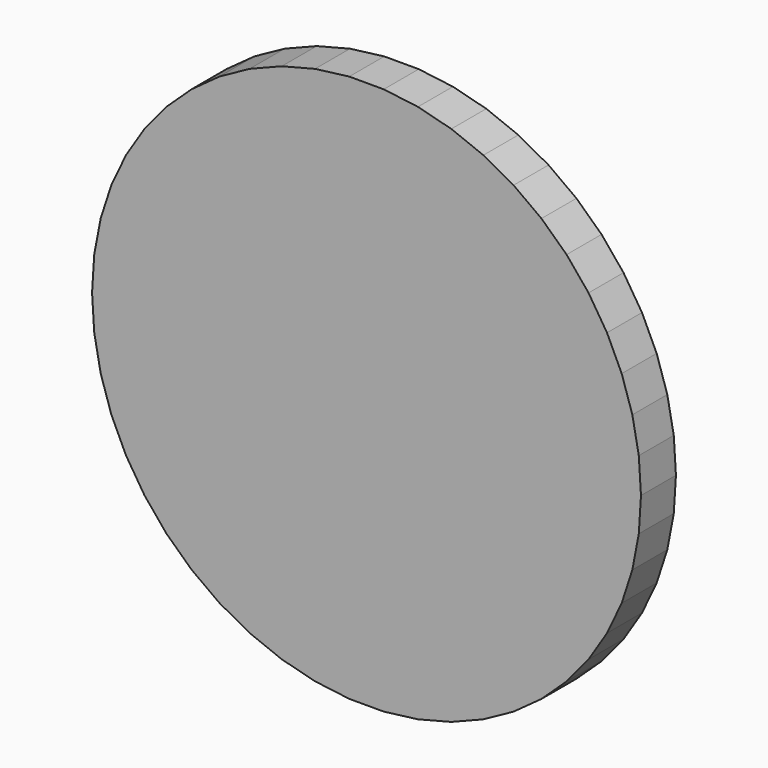
from build123d import *

# Parameters (mm, degrees)
F2_DEPTH = 10


with BuildPart() as f2:
    # F0 (on Front) → F2 (new body)
    with BuildSketch(Plane.XZ):
        Polygon((3.942324, 62.661439), (-3.942324, 62.661439), (-11.764798, 61.673231), (-19.401734, 59.712399), (-26.732694, 56.809867), (-33.642063, 53.011409), (-40.020877, 48.37693), (-45.768537, 42.979517), (-50.7944, 36.904292), (-55.019206, 30.247064), (-58.376325, 23.112822), (-60.812815, 15.614077), (-62.290251, 7.869089), (-62.785332, 0), (-62.290251, -7.869089), (-60.812815, -15.614077), (-58.376325, -23.112822), (-55.019206, -30.247064), (-50.7944, -36.904292), (-45.768537, -42.979517), (-40.020877, -48.37693), (-33.642063, -53.011409), (-26.732694, -56.809867), (-19.401734, -59.712399), (-11.764798, -61.673231), (-3.942324, -62.661439), (3.942324, -62.661439), (11.764798, -61.673231), (19.401734, -59.712399), (26.732694, -56.809867), (33.642063, -53.011409), (40.020877, -48.37693), (45.768537, -42.979517), (50.7944, -36.904292), (55.019206, -30.247064), (58.376325, -23.112822), (60.812815, -15.614077), (62.290251, -7.869089), (62.785332, 0), (62.290251, 7.869089), (60.812815, 15.614077), (58.376325, 23.112822), (55.019206, 30.247064), (50.7944, 36.904292), (45.768537, 42.979517), (40.020877, 48.37693), (33.642063, 53.011409), (26.732694, 56.809867), (19.401734, 59.712399), (11.764798, 61.673231), align=None)
    extrude(amount=F2_DEPTH)


solid = f2.part
